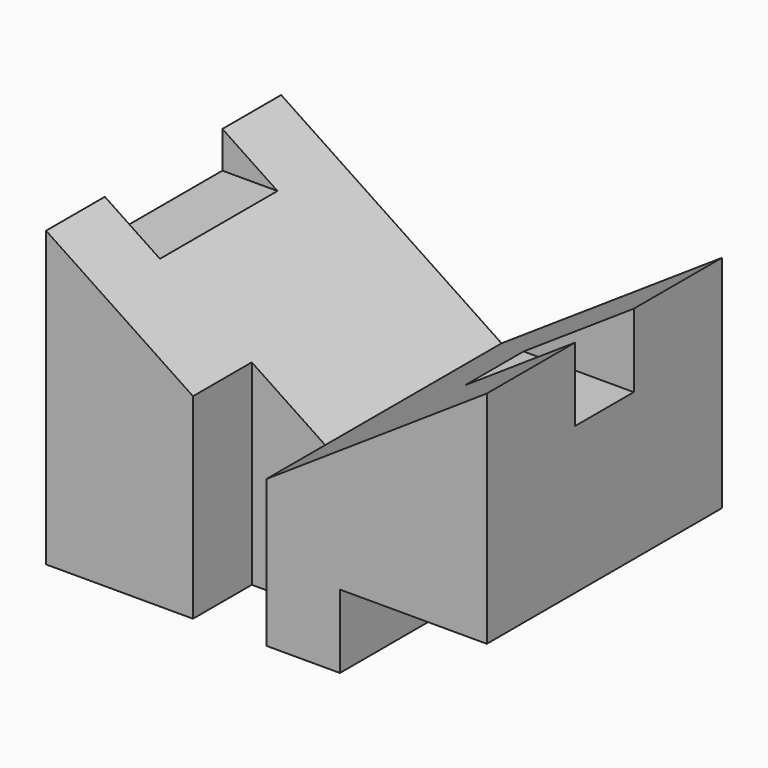
from build123d import *

# Parameters (mm, degrees)
F1_DEPTH = 101.6
F2_W     = 101.6
F2_H     = 25.4
F2_W_2   = 25.4
F3_DEPTH = 50.8
F4_W     = 50.8
F4_H     = 12.7
F5_DEPTH = 25.4
F6_W     = 25.4
F6_H     = 25.4
F7_DEPTH = 101.601


with BuildPart() as f1:
    # F0 (on Front) → F1 (new body)
    with BuildSketch(Plane.XZ):
        Polygon((76.2, -50.8), (0, -101.6), (152.4, -101.6), align=None)
        Polygon((76.2, -50.8), (0, 0), (0, -101.6), align=None)
        Polygon((152.4, -101.6), (152.4, 0), (76.2, -50.8), align=None)
    extrude(amount=F1_DEPTH)

    # F2 (on face) → F3 (cut)
    with BuildSketch(Plane.YZ.offset(152.4)):
        with Locations((-50.8, -88.9)):
            Rectangle(F2_W, F2_H)
        with Locations((-50.8, -12.7)):
            Rectangle(F2_W_2, F2_H)
    extrude(amount=-F3_DEPTH, mode=Mode.SUBTRACT)

    # F4 (on face) → F5 (cut)
    with BuildSketch(Plane(origin=(0, 0, 0), x_dir=(0, -1, 0), z_dir=(-1, 0, 0))):
        with Locations((50.8, -6.35)):
            Rectangle(F4_W, F4_H)
    extrude(amount=-F5_DEPTH, mode=Mode.SUBTRACT)

    # F6 (on face) → F7 (cut, through all)
    with BuildSketch(Plane(origin=(0, 0, -101.6), x_dir=(1, 0, 0), z_dir=(0, 0, -1))):
        with Locations((63.5, 88.9)):
            Rectangle(F6_W, F6_H)
    extrude(amount=-F7_DEPTH, mode=Mode.SUBTRACT)


solid = f1.part
